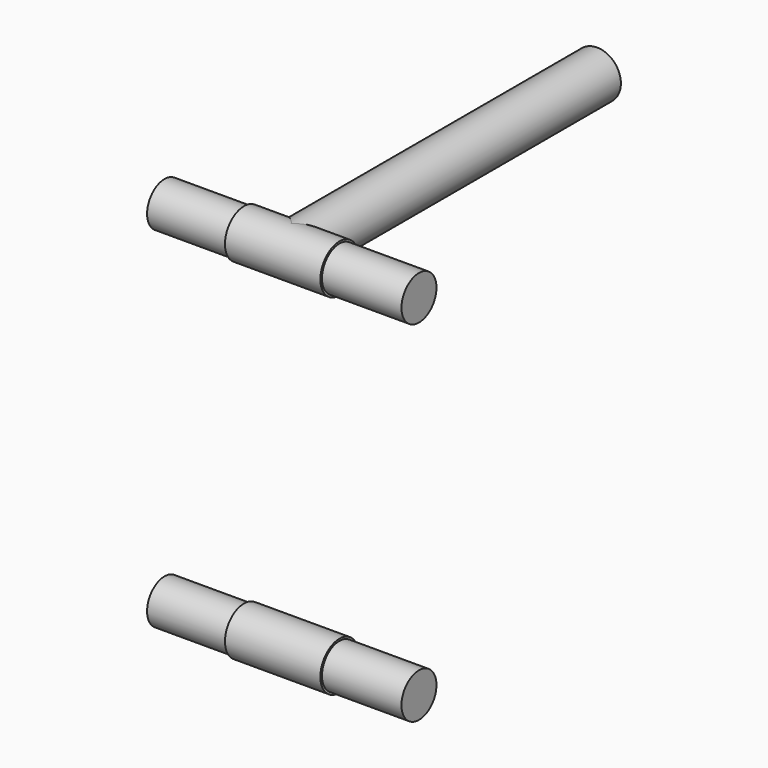
from build123d import *

# Parameters (mm, degrees)
F0_R     = 17.4625
F1_DEPTH = 101.6
F2_R     = 19.05
F3_DEPTH = 38.1
F5_R     = 19.05
F6_DEPTH = 304.8


with BuildPart() as f1:
    # F0 (on Right) → F1 (new body, symmetric)
    with BuildSketch(Plane.YZ):
        with Locations((0, -139.7)):
            Circle(F0_R)
        with Locations((0, 139.7)):
            Circle(F0_R)
    extrude(amount=F1_DEPTH, both=True)

    # F4: F3 across plane


with BuildPart() as f3:
    # F2 (on Right) → F3 (new body, symmetric)
    with BuildSketch(Plane.YZ):
        with Locations((0, 139.7)):
            Circle(F2_R)
    extrude(amount=F3_DEPTH, both=True)


with BuildPart() as f1_1:
    add(f1.part)
    add(f3.part.mirror(Plane.XY))


with BuildPart() as f6:
    # F5 (on Front) → F6 (new body)
    with BuildSketch(Plane.XZ):
        with Locations((0, 139.7)):
            Circle(F5_R)
    extrude(amount=-F6_DEPTH)


solid = Compound([f3.part, f1_1.part, f6.part])
